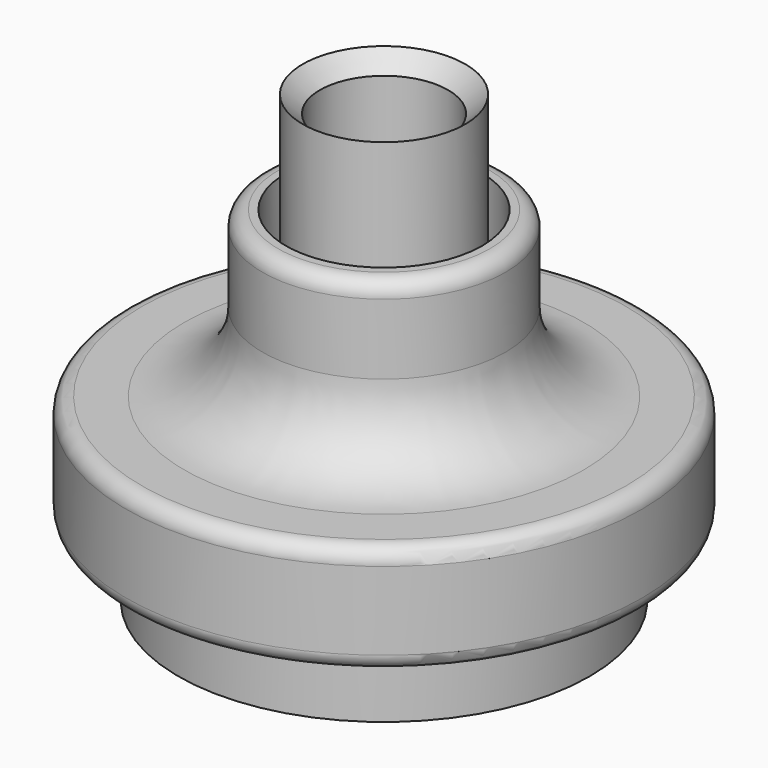
from build123d import *

# Parameters (mm, degrees)
FILLET_R    = 1
FILLET001_R = 1
FILLET002_R = 1


with BuildPart() as part:
    # Sketch → Revolution (revolve)
    with BuildSketch(Plane.XZ):
        with BuildLine():
            Line((4.1, 27.4), (4.1, 12))
            Line((4.1, 12), (13.15, 0))
            Line((13.15, 0), (13.15, 8.5))
            Line((13.15, 8.5), (15, 8.5))
            Line((15, 8.5), (15, 4.5))
            Line((15, 4.5), (16.5, 4.5))
            Line((16.5, 4.5), (16.5, 11.5))
            Line((16.5, 11.5), (12.775, 11.5))
            ThreePointArc((7.775, 16.5), (9.239466, 12.964466), (12.775, 11.5))
            Line((7.775, 22), (7.775, 16.5))
            Line((6.275, 22), (7.775, 22))
            Line((6.275, 18), (6.275, 22))
            Line((5.2, 18), (6.275, 18))
            Line((5.2, 28.5), (5.2, 18))
            Line((4.1, 27.4), (5.2, 28.5))
        make_face()
    revolve(axis=Axis((0, 0, 0), (0, 0, 1)))

    # Fillet
    fillet_edges = [part.edges().sort_by_distance(p)[0] for p in [
        (-16.5, 0, 4.5),
    ]]
    fillet(fillet_edges, radius=FILLET_R)

    # Fillet001
    fillet001_edges = [part.edges().sort_by_distance(p)[0] for p in [
        (-16.5, 0, 11.5),
    ]]
    fillet(fillet001_edges, radius=FILLET001_R)

    # Fillet002
    fillet002_edges = [part.edges().sort_by_distance(p)[0] for p in [
        (-7.775, 0, 22),
    ]]
    fillet(fillet002_edges, radius=FILLET002_R)


solid = part.part
